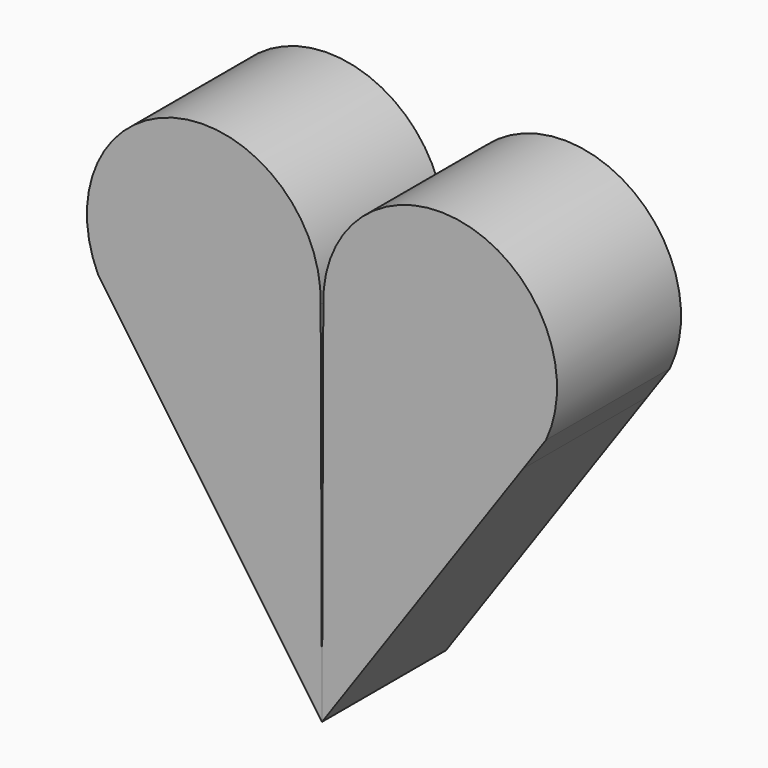
from build123d import *

# Parameters (mm, degrees)
F1_DEPTH = 25.4


with BuildPart() as f1:
    # F0 (on Front) → F1 (new body)
    with BuildSketch(Plane.XZ):
        with BuildLine():
            ThreePointArc((32.988012049, 5.6183730143), (12.3469994792, 1.2557279462), (0.2177443361, 18.5173976678))
            Line((0.2177443361, 18.5173976678), (0, -41.6659414768))
            Line((0, -41.6659414768), (32.988012049, 5.6183730143))
        make_face()
        with BuildLine():
            ThreePointArc((36.6974111899, 10.9353468075), (38.0544392949, 14.9061191482), (38.5141378729, 19.0771184862))
            ThreePointArc((38.5141378729, 19.0771184862), (19.0819605071, 38.2273602948), (0.2177443361, 18.5173976678))
            ThreePointArc((0.2177443361, 18.5173976678), (12.3469994792, 1.2557279462), (32.988012049, 5.6183730143))
            Line((32.988012049, 5.6183730143), (36.6974111899, 10.9353468075))
        make_face()
    extrude(amount=F1_DEPTH)


with BuildPart() as f2_1:
    # F2: instance of F1
    add(f1.part.mirror(Plane.YZ))


solid = Compound([f1.part, f2_1.part])
